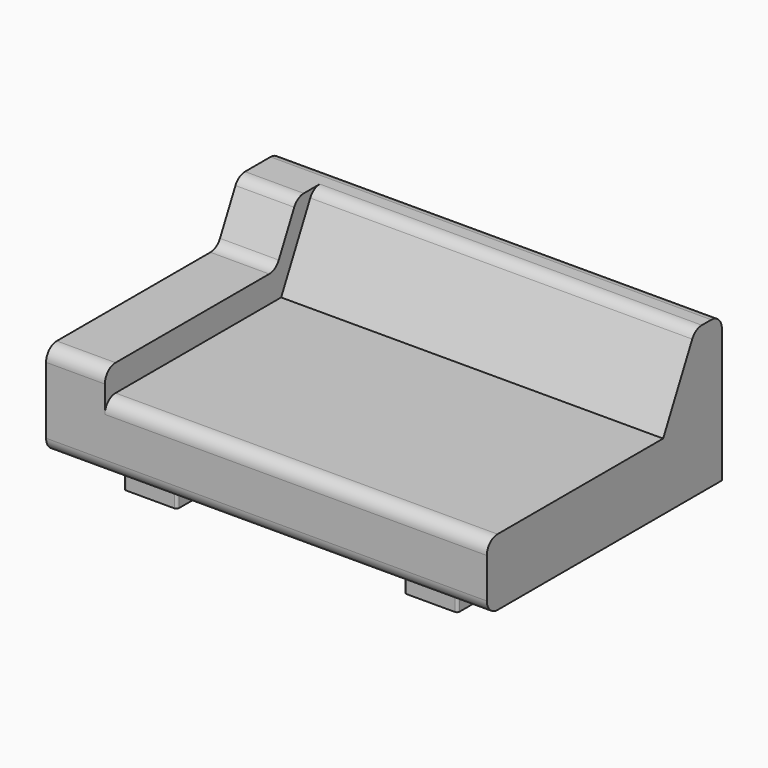
from build123d import *

# Parameters (mm, degrees)
PAD001_DEPTH = 1650
POCKET_DEPTH = 1430
FILLET_R     = 50
SKETCH_W     = 200
SKETCH_H     = 75
PAD_DEPTH    = 100
FILLET001_R  = 10
SKETCH004_W  = 200
SKETCH004_H  = 75
PAD002_DEPTH = 100
FILLET002_R  = 10
SKETCH005_W  = 200
SKETCH005_H  = 75
PAD003_DEPTH = 100
FILLET003_R  = 10
SKETCH006_W  = 200
SKETCH006_H  = 75
PAD004_DEPTH = 100
FILLET004_R  = 10


with BuildPart() as base:
    # Sketch002 → Pad001 (new body)
    with BuildSketch(Plane.YZ):
        Polygon((-550, 350), (250, 350), (350, 550), (550, 550), (550, 0), (-550, 0), align=None)
    extrude(amount=PAD001_DEPTH)

    # Sketch003 (on Face8 of Pad001) → Pocket (cut)
    with BuildSketch(Plane.YZ.offset(1650)):
        Polygon((-550, 350), (250, 350), (350, 550), (425, 550), (275, 250), (-550, 250), align=None)
    extrude(amount=-POCKET_DEPTH, mode=Mode.SUBTRACT)

    # Fillet
    fillet_edges = [base.edges().sort_by_distance(p)[0] for p in [
        (110, 350, 550),
        (110, -550, 350),
        (110, 250, 350),
        (935, -550, 250),
        (935, 425, 550),
        (825, 550, 550),
        (825, -550, 0),
    ]]
    fillet(fillet_edges, radius=FILLET_R)


with BuildPart() as foot_front_left:
    # Sketch → Pad (new body)
    with BuildSketch(Plane.XY):
        Rectangle(SKETCH_W, SKETCH_H)
    extrude(amount=-PAD_DEPTH)

    # Fillet001
    fillet001_edges = [foot_front_left.edges().sort_by_distance(p)[0] for p in [
        (100, -37.5, -50),
        (-100, -37.5, -50),
    ]]
    fillet(fillet001_edges, radius=FILLET001_R)


with BuildPart() as foot_front_left_1:
    # Body placement: moved
    add(foot_front_left.part.moved(Location((300, -400, 0))))


with BuildPart() as foot_front_right:
    # Sketch004 → Pad002 (new body)
    with BuildSketch(Plane.XY):
        Rectangle(SKETCH004_W, SKETCH004_H)
    extrude(amount=-PAD002_DEPTH)

    # Fillet002
    fillet002_edges = [foot_front_right.edges().sort_by_distance(p)[0] for p in [
        (100, -37.5, -50),
        (-100, -37.5, -50),
    ]]
    fillet(fillet002_edges, radius=FILLET002_R)


with BuildPart() as foot_front_right_1:
    # Body002 placement: moved
    add(foot_front_right.part.moved(Location((1350, -400, 0))))


with BuildPart() as foot_back_left:
    # Sketch005 → Pad003 (new body)
    with BuildSketch(Plane.XY):
        Rectangle(SKETCH005_W, SKETCH005_H)
    extrude(amount=-PAD003_DEPTH)

    # Fillet003
    fillet003_edges = [foot_back_left.edges().sort_by_distance(p)[0] for p in [
        (100, -37.5, -50),
        (-100, -37.5, -50),
    ]]
    fillet(fillet003_edges, radius=FILLET003_R)


with BuildPart() as foot_back_left_1:
    # Body003 placement: moved
    add(foot_back_left.part.moved(Location((300, 400, 0))))


with BuildPart() as foot_back_right:
    # Sketch006 → Pad004 (new body)
    with BuildSketch(Plane.XY):
        Rectangle(SKETCH006_W, SKETCH006_H)
    extrude(amount=-PAD004_DEPTH)

    # Fillet004
    fillet004_edges = [foot_back_right.edges().sort_by_distance(p)[0] for p in [
        (100, -37.5, -50),
        (-100, -37.5, -50),
    ]]
    fillet(fillet004_edges, radius=FILLET004_R)


with BuildPart() as foot_back_right_1:
    # Body004 placement: moved
    add(foot_back_right.part.moved(Location((1350, 400, 0))))


solid = Compound([base.part, foot_front_left_1.part, foot_front_right_1.part, foot_back_left_1.part, foot_back_right_1.part])
